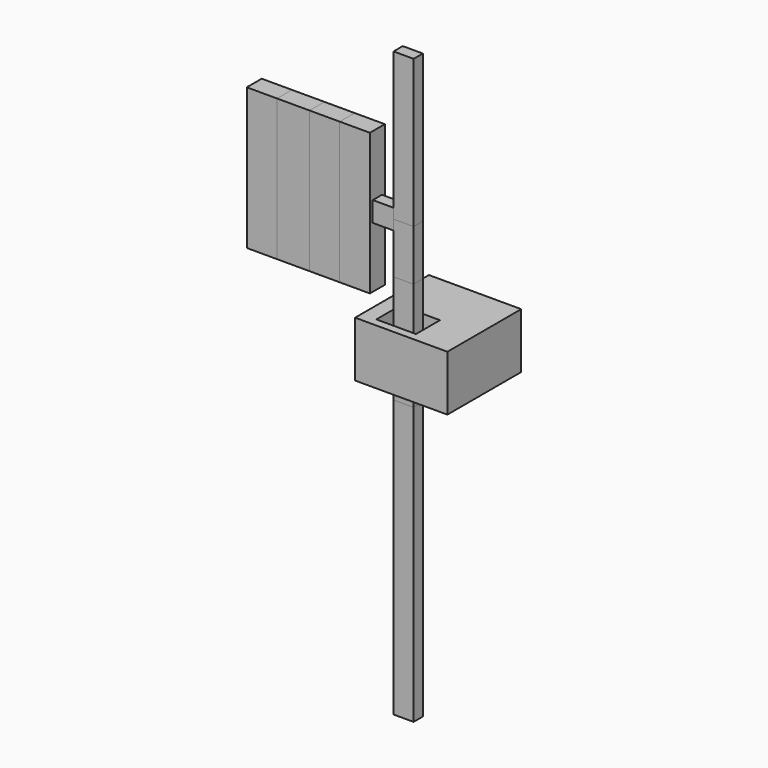
from build123d import *

# Parameters (mm, degrees)
F0_W      = 1016
F0_H      = 1016
F1_DEPTH  = 609.6
F2_W      = 436.88
F2_H      = 330.2
F2_W_2    = 220.98
F2_H_2    = 127
F3_DEPTH  = 609.601
F4_DEPTH  = 762
F5_DEPTH  = 1168.4
F6_DEPTH  = 431.8
F7_DEPTH  = 1193.8
F8_DEPTH  = 406.4
F9_DEPTH  = 1320.8
F10_DEPTH = 177.8
F11_DEPTH = 3048
F12_DEPTH = 3048
F13_DEPTH = 2489.2
F14_DEPTH = 1625.6
F15_W     = 127
F15_H     = 220.98
F16_DEPTH = 228.6
F17_W     = 205.486
F17_H     = 1557.274
F18_DEPTH = 332.486
F19_DEPTH = 332.486
F20_DEPTH = 332.486
F21_DEPTH = 25.4
F22_DEPTH = 332.486


with BuildPart() as f1:
    # F0 (on Top) → F1 (new body)
    with BuildSketch(Plane.XY):
        with Locations((508, 508)):
            Rectangle(F0_W, F0_H)
    extrude(amount=F1_DEPTH)

    # F2 (on face) → F3 (cut, through all)
    with BuildSketch(Plane.XY.offset(609.6)):
        with Locations((381, 254)):
            Rectangle(F2_W, F2_H)
        with Locations((381, 254)):
            Rectangle(F2_W_2, F2_H_2, mode=Mode.SUBTRACT)
        with Locations((381, 254)):
            Rectangle(F2_W_2, F2_H_2)
    extrude(amount=-F3_DEPTH, mode=Mode.SUBTRACT)


with BuildPart() as f4:
    # F2 (on face) → F4 (new body, symmetric)
    with BuildSketch(Plane.XY.offset(609.6)):
        with Locations((381, 254)):
            Rectangle(F2_W_2, F2_H_2)
    extrude(amount=F4_DEPTH, both=True)

    # F5 (add): a face of the model
    f5_faces = [f4.faces().sort_by_distance(p)[0] for p in [
        (381, 254, -152.4),
    ]]
    extrude(f5_faces, amount=F5_DEPTH)

    # F6 (add): a face of the model
    f6_faces = [f4.faces().sort_by_distance(p)[0] for p in [
        (381, 254, 1371.6),
    ]]
    extrude(f6_faces, amount=F6_DEPTH)

    # F7 (cut, through all): a face of the model
    f7_faces = [f4.faces().sort_by_distance(p)[0] for p in [
        (381, 254, 1803.4),
    ]]
    extrude(f7_faces, amount=-F7_DEPTH, mode=Mode.SUBTRACT)

    # F8 (add): a face of the model
    f8_faces = [f4.faces().sort_by_distance(p)[0] for p in [
        (381, 254, 609.6),
    ]]
    extrude(f8_faces, amount=F8_DEPTH)

    # F9 (cut, through all): a face of the model
    f9_faces = [f4.faces().sort_by_distance(p)[0] for p in [
        (381, 254, -1320.8),
    ]]
    extrude(f9_faces, amount=-F9_DEPTH, mode=Mode.SUBTRACT)

    # F10 (add): a face of the model
    f10_faces = [f4.faces().sort_by_distance(p)[0] for p in [
        (381, 254, 0),
    ]]
    extrude(f10_faces, amount=F10_DEPTH)


with BuildPart() as f11:
    # F11 (new): a face of the model
    f11_faces = [f4.part.faces().sort_by_distance(p)[0] for p in [
        (381, 254, 1016),
    ]]
    extrude(f11_faces, amount=F11_DEPTH)

    # F13 (cut): a face of the model
    f13_faces = [f11.faces().sort_by_distance(p)[0] for p in [
        (381, 254, 4064),
    ]]
    extrude(f13_faces, amount=-F13_DEPTH, mode=Mode.SUBTRACT)


with BuildPart() as f12:
    # F12 (new): a face of the model
    f12_faces = [f4.part.faces().sort_by_distance(p)[0] for p in [
        (381, 254, -177.8),
    ]]
    extrude(f12_faces, amount=F12_DEPTH)


with BuildPart() as f14:
    # F14 (new): a face of the model
    f14_faces = [f11.part.faces().sort_by_distance(p)[0] for p in [
        (381, 254, 1574.8),
    ]]
    extrude(f14_faces, amount=F14_DEPTH)


with BuildPart() as f16:
    # F15 (on face) → F16 (new body)
    with BuildSketch(Plane(origin=(270.51, 0, 0), x_dir=(0, -1, 0), z_dir=(-1, 0, 0))):
        with Locations((-254, 1574.8)):
            Rectangle(F15_W, F15_H)
    extrude(amount=F16_DEPTH)


with BuildPart() as f18:
    # F17 (on face) → F18 (new body)
    with BuildSketch(Plane(origin=(41.91, 0, 0), x_dir=(0, -1, 0), z_dir=(-1, 0, 0))):
        with Locations((-254, 1574.8)):
            Rectangle(F17_W, F17_H)
    extrude(amount=F18_DEPTH)


with BuildPart() as f19:
    # F19 (new): a face of the model
    f19_faces = [f18.part.faces().sort_by_distance(p)[0] for p in [
        (-290.576, 254, 1574.8),
    ]]
    extrude(f19_faces, amount=F19_DEPTH)


with BuildPart() as f20:
    # F20 (new): a face of the model
    f20_faces = [f19.part.faces().sort_by_distance(p)[0] for p in [
        (-623.062, 254, 1574.8),
    ]]
    extrude(f20_faces, amount=F20_DEPTH)

    # F21 (add): a face of the model
    f21_faces = [f20.faces().sort_by_distance(p)[0] for p in [
        (-955.548, 254, 1574.8),
    ]]
    extrude(f21_faces, amount=F21_DEPTH)


with BuildPart() as f22:
    # F22 (new): a face of the model
    f22_faces = [f20.part.faces().sort_by_distance(p)[0] for p in [
        (-980.948, 254, 1574.8),
    ]]
    extrude(f22_faces, amount=F22_DEPTH)


solid = Compound([f1.part, f4.part, f11.part, f12.part, f14.part, f16.part, f18.part, f19.part, f20.part, f22.part])
